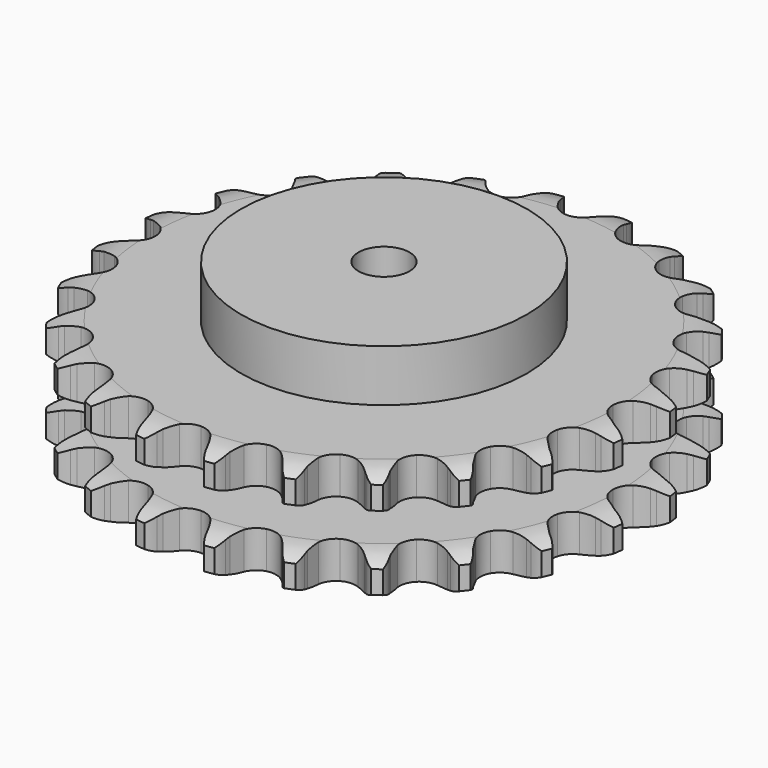
from build123d import *

# Parameters (mm, degrees)
PAD_DEPTH         = 54.6
SKETCH001_R       = 70
PAD001_DEPTH      = 80
SKETCH002_R       = 12.5
POCKET_DEPTH      = 0.001
POCKET_DEPTH_BACK = 80.001


with BuildPart() as part:
    # Sprocket → Pad (new body)
    with BuildSketch(Plane.XY):
        with BuildLine():
            ThreePointArc((-17.220499, 130.802677), (-14.07962, 127.759778), (-11.902434, 123.967125))
            Line((-11.902434, 123.967125), (-10.977468, 121.658441))
            ThreePointArc((-10.977468, 121.658441), (-9.502577, 118.600676), (-7.624701, 115.77246))
            ThreePointArc((-7.624701, 115.77246), (-4.250715, 113.003502), (0, 112.012374))
            ThreePointArc((0, 112.012374), (4.250715, 113.003502), (7.624701, 115.77246))
            ThreePointArc((7.624701, 115.77246), (9.502577, 118.600676), (10.977468, 121.658441))
            Line((10.977468, 121.658441), (11.902434, 123.967125))
            ThreePointArc((11.902434, 123.967125), (14.07962, 127.759778), (17.220499, 130.802677))
            ThreePointArc((17.220499, 130.802677), (19.466795, 127.050543), (20.588184, 122.823624))
            Line((20.588184, 122.823624), (20.884102, 120.354208))
            ThreePointArc((20.884102, 120.354208), (21.517329, 117.018904), (22.599222, 113.801027))
            ThreePointArc((22.599222, 113.801027), (25.141583, 110.253167), (28.990936, 108.195645))
            ThreePointArc((28.990936, 108.195645), (33.353334, 108.052835), (37.329013, 109.854192))
            Line((37.329013, 109.854192), (42.090941, 114.671852))
            ThreePointArc((42.090941, 114.671852), (42.811513, 115.685826), (43.581921, 116.662471))
            ThreePointArc((43.581921, 116.662471), (46.666533, 119.762395), (50.487949, 121.888691))
            ThreePointArc((50.487949, 121.888691), (51.68658, 117.683023), (51.675752, 113.309896))
            Line((51.675752, 113.309896), (51.322454, 110.848035))
            ThreePointArc((51.322454, 110.848035), (51.070865, 107.462487), (51.283046, 104.074242))
            ThreePointArc((51.283046, 104.074242), (52.820524, 99.989261), (56.006187, 97.005561))
            ThreePointArc((56.006187, 97.005561), (60.182978, 95.738546), (64.489415, 96.449541))
            Line((64.489415, 96.449541), (70.335987, 99.870567))
            ThreePointArc((70.335987, 99.870567), (71.294441, 100.663492), (72.291373, 101.407462))
            ThreePointArc((72.291373, 101.407462), (76.073198, 103.603403), (80.314728, 104.668192))
            ThreePointArc((80.314728, 104.668192), (80.38401, 100.2956), (79.241703, 96.074286))
            Line((79.241703, 96.074286), (78.263267, 93.787751))
            ThreePointArc((78.263267, 93.787751), (77.144006, 90.58268), (76.472014, 87.254969))
            ThreePointArc((76.472014, 87.254969), (76.899833, 82.911252), (79.204709, 79.204709))
            ThreePointArc((79.204709, 79.204709), (82.911252, 76.899833), (87.254969, 76.472014))
            Line((87.254969, 76.472014), (93.787751, 78.263267))
            ThreePointArc((93.787751, 78.263267), (94.918771, 78.781107), (96.074286, 79.241703))
            ThreePointArc((96.074286, 79.241703), (100.2956, 80.38401), (104.668192, 80.314728))
            ThreePointArc((104.668192, 80.314728), (103.603403, 76.073198), (101.407462, 72.291373))
            Line((101.407462, 72.291373), (99.870567, 70.335987))
            ThreePointArc((99.870567, 70.335987), (97.95991, 67.529812), (96.449541, 64.489415))
            ThreePointArc((96.449541, 64.489415), (95.738546, 60.182978), (97.005561, 56.006187))
            ThreePointArc((97.005561, 56.006187), (99.989261, 52.820524), (104.074242, 51.283046))
            Line((104.074242, 51.283046), (110.848035, 51.322454))
            ThreePointArc((110.848035, 51.322454), (112.074543, 51.529921), (113.309896, 51.675752))
            ThreePointArc((113.309896, 51.675752), (117.683023, 51.68658), (121.888691, 50.487949))
            ThreePointArc((121.888691, 50.487949), (119.762395, 46.666533), (116.662471, 43.581921))
            Line((116.662471, 43.581921), (114.671852, 42.090941))
            ThreePointArc((114.671852, 42.090941), (112.100008, 39.874899), (109.854192, 37.329013))
            ThreePointArc((109.854192, 37.329013), (108.052835, 33.353334), (108.195645, 28.990936))
            ThreePointArc((108.195645, 28.990936), (110.253167, 25.141583), (113.801027, 22.599222))
            Line((113.801027, 22.599222), (120.354208, 20.884102))
            ThreePointArc((120.354208, 20.884102), (121.59262, 20.767055), (122.823624, 20.588184))
            ThreePointArc((122.823624, 20.588184), (127.050543, 19.466795), (130.802677, 17.220499))
            ThreePointArc((130.802677, 17.220499), (127.759778, 14.07962), (123.967125, 11.902434))
            Line((123.967125, 11.902434), (121.658441, 10.977468))
            ThreePointArc((121.658441, 10.977468), (118.600676, 9.502577), (115.77246, 7.624701))
            ThreePointArc((115.77246, 7.624701), (113.003502, 4.250715), (112.012374, 0))
            ThreePointArc((112.012374, 0), (113.003502, -4.250715), (115.77246, -7.624701))
            Line((115.77246, -7.624701), (121.658441, -10.977468))
            ThreePointArc((121.658441, -10.977468), (122.824362, -11.411051), (123.967125, -11.902434))
            ThreePointArc((123.967125, -11.902434), (127.759778, -14.07962), (130.802677, -17.220499))
            ThreePointArc((130.802677, -17.220499), (127.050543, -19.466795), (122.823624, -20.588184))
            Line((122.823624, -20.588184), (120.354208, -20.884102))
            ThreePointArc((120.354208, -20.884102), (117.018904, -21.517329), (113.801027, -22.599222))
            ThreePointArc((113.801027, -22.599222), (110.253167, -25.141583), (108.195645, -28.990936))
            ThreePointArc((108.195645, -28.990936), (108.052835, -33.353334), (109.854192, -37.329013))
            Line((109.854192, -37.329013), (114.671852, -42.090941))
            ThreePointArc((114.671852, -42.090941), (115.685826, -42.811513), (116.662471, -43.581921))
            ThreePointArc((116.662471, -43.581921), (119.762395, -46.666533), (121.888691, -50.487949))
            ThreePointArc((121.888691, -50.487949), (117.683023, -51.68658), (113.309896, -51.675752))
            Line((113.309896, -51.675752), (110.848035, -51.322454))
            ThreePointArc((110.848035, -51.322454), (107.462487, -51.070865), (104.074242, -51.283046))
            ThreePointArc((104.074242, -51.283046), (99.989261, -52.820524), (97.005561, -56.006187))
            ThreePointArc((97.005561, -56.006187), (95.738546, -60.182978), (96.449541, -64.489415))
            Line((96.449541, -64.489415), (99.870567, -70.335987))
            ThreePointArc((99.870567, -70.335987), (100.663492, -71.294441), (101.407462, -72.291373))
            ThreePointArc((101.407462, -72.291373), (103.603403, -76.073198), (104.668192, -80.314728))
            ThreePointArc((104.668192, -80.314728), (100.2956, -80.38401), (96.074286, -79.241703))
            Line((96.074286, -79.241703), (93.787751, -78.263267))
            ThreePointArc((93.787751, -78.263267), (90.58268, -77.144006), (87.254969, -76.472014))
            ThreePointArc((87.254969, -76.472014), (82.911252, -76.899833), (79.204709, -79.204709))
            ThreePointArc((79.204709, -79.204709), (76.899833, -82.911252), (76.472014, -87.254969))
            Line((76.472014, -87.254969), (78.263267, -93.787751))
            ThreePointArc((78.263267, -93.787751), (78.781107, -94.918771), (79.241703, -96.074286))
            ThreePointArc((79.241703, -96.074286), (80.38401, -100.2956), (80.314728, -104.668192))
            ThreePointArc((80.314728, -104.668192), (76.073198, -103.603403), (72.291373, -101.407462))
            Line((72.291373, -101.407462), (70.335987, -99.870567))
            ThreePointArc((70.335987, -99.870567), (67.529812, -97.95991), (64.489415, -96.449541))
            ThreePointArc((64.489415, -96.449541), (60.182978, -95.738546), (56.006187, -97.005561))
            ThreePointArc((56.006187, -97.005561), (52.820524, -99.989261), (51.283046, -104.074242))
            Line((51.283046, -104.074242), (51.322454, -110.848035))
            ThreePointArc((51.322454, -110.848035), (51.529921, -112.074543), (51.675752, -113.309896))
            ThreePointArc((51.675752, -113.309896), (51.68658, -117.683023), (50.487949, -121.888691))
            ThreePointArc((50.487949, -121.888691), (46.666533, -119.762395), (43.581921, -116.662471))
            Line((43.581921, -116.662471), (42.090941, -114.671852))
            ThreePointArc((42.090941, -114.671852), (39.874899, -112.100008), (37.329013, -109.854192))
            ThreePointArc((37.329013, -109.854192), (33.353334, -108.052835), (28.990936, -108.195645))
            ThreePointArc((28.990936, -108.195645), (25.141583, -110.253167), (22.599222, -113.801027))
            Line((22.599222, -113.801027), (20.884102, -120.354208))
            ThreePointArc((20.884102, -120.354208), (20.767055, -121.59262), (20.588184, -122.823624))
            ThreePointArc((20.588184, -122.823624), (19.466795, -127.050543), (17.220499, -130.802677))
            ThreePointArc((17.220499, -130.802677), (14.07962, -127.759778), (11.902434, -123.967125))
            Line((11.902434, -123.967125), (10.977468, -121.658441))
            ThreePointArc((10.977468, -121.658441), (9.502577, -118.600676), (7.624701, -115.77246))
            ThreePointArc((7.624701, -115.77246), (4.250715, -113.003502), (0, -112.012374))
            ThreePointArc((0, -112.012374), (-4.250715, -113.003502), (-7.624701, -115.77246))
            Line((-7.624701, -115.77246), (-10.977468, -121.658441))
            ThreePointArc((-10.977468, -121.658441), (-11.411051, -122.824362), (-11.902434, -123.967125))
            ThreePointArc((-11.902434, -123.967125), (-14.07962, -127.759778), (-17.220499, -130.802677))
            ThreePointArc((-17.220499, -130.802677), (-19.466795, -127.050543), (-20.588184, -122.823624))
            Line((-20.588184, -122.823624), (-20.884102, -120.354208))
            ThreePointArc((-20.884102, -120.354208), (-21.517329, -117.018904), (-22.599222, -113.801027))
            ThreePointArc((-22.599222, -113.801027), (-25.141583, -110.253167), (-28.990936, -108.195645))
            ThreePointArc((-28.990936, -108.195645), (-33.353334, -108.052835), (-37.329013, -109.854192))
            Line((-37.329013, -109.854192), (-42.090941, -114.671852))
            ThreePointArc((-42.090941, -114.671852), (-42.811513, -115.685826), (-43.581921, -116.662471))
            ThreePointArc((-43.581921, -116.662471), (-46.666533, -119.762395), (-50.487949, -121.888691))
            ThreePointArc((-50.487949, -121.888691), (-51.68658, -117.683023), (-51.675752, -113.309896))
            Line((-51.675752, -113.309896), (-51.322454, -110.848035))
            ThreePointArc((-51.322454, -110.848035), (-51.070865, -107.462487), (-51.283046, -104.074242))
            ThreePointArc((-51.283046, -104.074242), (-52.820524, -99.989261), (-56.006187, -97.005561))
            ThreePointArc((-56.006187, -97.005561), (-60.182978, -95.738546), (-64.489415, -96.449541))
            Line((-64.489415, -96.449541), (-70.335987, -99.870567))
            ThreePointArc((-70.335987, -99.870567), (-71.294441, -100.663492), (-72.291373, -101.407462))
            ThreePointArc((-72.291373, -101.407462), (-76.073198, -103.603403), (-80.314728, -104.668192))
            ThreePointArc((-80.314728, -104.668192), (-80.38401, -100.2956), (-79.241703, -96.074286))
            Line((-79.241703, -96.074286), (-78.263267, -93.787751))
            ThreePointArc((-78.263267, -93.787751), (-77.144006, -90.58268), (-76.472014, -87.254969))
            ThreePointArc((-76.472014, -87.254969), (-76.899833, -82.911252), (-79.204709, -79.204709))
            ThreePointArc((-79.204709, -79.204709), (-82.911252, -76.899833), (-87.254969, -76.472014))
            Line((-87.254969, -76.472014), (-93.787751, -78.263267))
            ThreePointArc((-93.787751, -78.263267), (-94.918771, -78.781107), (-96.074286, -79.241703))
            ThreePointArc((-96.074286, -79.241703), (-100.2956, -80.38401), (-104.668192, -80.314728))
            ThreePointArc((-104.668192, -80.314728), (-103.603403, -76.073198), (-101.407462, -72.291373))
            Line((-101.407462, -72.291373), (-99.870567, -70.335987))
            ThreePointArc((-99.870567, -70.335987), (-97.95991, -67.529812), (-96.449541, -64.489415))
            ThreePointArc((-96.449541, -64.489415), (-95.738546, -60.182978), (-97.005561, -56.006187))
            ThreePointArc((-97.005561, -56.006187), (-99.989261, -52.820524), (-104.074242, -51.283046))
            Line((-104.074242, -51.283046), (-110.848035, -51.322454))
            ThreePointArc((-110.848035, -51.322454), (-112.074543, -51.529921), (-113.309896, -51.675752))
            ThreePointArc((-113.309896, -51.675752), (-117.683023, -51.68658), (-121.888691, -50.487949))
            ThreePointArc((-121.888691, -50.487949), (-119.762395, -46.666533), (-116.662471, -43.581921))
            Line((-116.662471, -43.581921), (-114.671852, -42.090941))
            ThreePointArc((-114.671852, -42.090941), (-112.100008, -39.874899), (-109.854192, -37.329013))
            ThreePointArc((-109.854192, -37.329013), (-108.052835, -33.353334), (-108.195645, -28.990936))
            ThreePointArc((-108.195645, -28.990936), (-110.253167, -25.141583), (-113.801027, -22.599222))
            Line((-113.801027, -22.599222), (-120.354208, -20.884102))
            ThreePointArc((-120.354208, -20.884102), (-121.59262, -20.767055), (-122.823624, -20.588184))
            ThreePointArc((-122.823624, -20.588184), (-127.050543, -19.466795), (-130.802677, -17.220499))
            ThreePointArc((-130.802677, -17.220499), (-127.759778, -14.07962), (-123.967125, -11.902434))
            Line((-123.967125, -11.902434), (-121.658441, -10.977468))
            ThreePointArc((-121.658441, -10.977468), (-118.600676, -9.502577), (-115.77246, -7.624701))
            ThreePointArc((-115.77246, -7.624701), (-113.003502, -4.250715), (-112.012374, 0))
            ThreePointArc((-112.012374, 0), (-113.003502, 4.250715), (-115.77246, 7.624701))
            Line((-115.77246, 7.624701), (-121.658441, 10.977468))
            ThreePointArc((-121.658441, 10.977468), (-122.824362, 11.411051), (-123.967125, 11.902434))
            ThreePointArc((-123.967125, 11.902434), (-127.759778, 14.07962), (-130.802677, 17.220499))
            ThreePointArc((-130.802677, 17.220499), (-127.050543, 19.466795), (-122.823624, 20.588184))
            Line((-122.823624, 20.588184), (-120.354208, 20.884102))
            ThreePointArc((-120.354208, 20.884102), (-117.018904, 21.517329), (-113.801027, 22.599222))
            ThreePointArc((-113.801027, 22.599222), (-110.253167, 25.141583), (-108.195645, 28.990936))
            ThreePointArc((-108.195645, 28.990936), (-108.052835, 33.353334), (-109.854192, 37.329013))
            Line((-109.854192, 37.329013), (-114.671852, 42.090941))
            ThreePointArc((-114.671852, 42.090941), (-115.685826, 42.811513), (-116.662471, 43.581921))
            ThreePointArc((-116.662471, 43.581921), (-119.762395, 46.666533), (-121.888691, 50.487949))
            ThreePointArc((-121.888691, 50.487949), (-117.683023, 51.68658), (-113.309896, 51.675752))
            Line((-113.309896, 51.675752), (-110.848035, 51.322454))
            ThreePointArc((-110.848035, 51.322454), (-107.462487, 51.070865), (-104.074242, 51.283046))
            ThreePointArc((-104.074242, 51.283046), (-99.989261, 52.820524), (-97.005561, 56.006187))
            ThreePointArc((-97.005561, 56.006187), (-95.738546, 60.182978), (-96.449541, 64.489415))
            Line((-96.449541, 64.489415), (-99.870567, 70.335987))
            ThreePointArc((-99.870567, 70.335987), (-100.663492, 71.294441), (-101.407462, 72.291373))
            ThreePointArc((-101.407462, 72.291373), (-103.603403, 76.073198), (-104.668192, 80.314728))
            ThreePointArc((-104.668192, 80.314728), (-100.2956, 80.38401), (-96.074286, 79.241703))
            Line((-96.074286, 79.241703), (-93.787751, 78.263267))
            ThreePointArc((-93.787751, 78.263267), (-90.58268, 77.144006), (-87.254969, 76.472014))
            ThreePointArc((-87.254969, 76.472014), (-82.911252, 76.899833), (-79.204709, 79.204709))
            ThreePointArc((-79.204709, 79.204709), (-76.899833, 82.911252), (-76.472014, 87.254969))
            Line((-76.472014, 87.254969), (-78.263267, 93.787751))
            ThreePointArc((-78.263267, 93.787751), (-78.781107, 94.918771), (-79.241703, 96.074286))
            ThreePointArc((-79.241703, 96.074286), (-80.38401, 100.2956), (-80.314728, 104.668192))
            ThreePointArc((-80.314728, 104.668192), (-76.073198, 103.603403), (-72.291373, 101.407462))
            Line((-72.291373, 101.407462), (-70.335987, 99.870567))
            ThreePointArc((-70.335987, 99.870567), (-67.529812, 97.95991), (-64.489415, 96.449541))
            ThreePointArc((-64.489415, 96.449541), (-60.182978, 95.738546), (-56.006187, 97.005561))
            ThreePointArc((-56.006187, 97.005561), (-52.820524, 99.989261), (-51.283046, 104.074242))
            Line((-51.283046, 104.074242), (-51.322454, 110.848035))
            ThreePointArc((-51.322454, 110.848035), (-51.529921, 112.074543), (-51.675752, 113.309896))
            ThreePointArc((-51.675752, 113.309896), (-51.68658, 117.683023), (-50.487949, 121.888691))
            ThreePointArc((-50.487949, 121.888691), (-46.666533, 119.762395), (-43.581921, 116.662471))
            Line((-43.581921, 116.662471), (-42.090941, 114.671852))
            ThreePointArc((-42.090941, 114.671852), (-39.874899, 112.100008), (-37.329013, 109.854192))
            ThreePointArc((-37.329013, 109.854192), (-33.353334, 108.052835), (-28.990936, 108.195645))
            ThreePointArc((-28.990936, 108.195645), (-25.141583, 110.253167), (-22.599222, 113.801027))
            Line((-22.599222, 113.801027), (-20.884102, 120.354208))
            ThreePointArc((-20.884102, 120.354208), (-20.767055, 121.59262), (-20.588184, 122.823624))
            ThreePointArc((-20.588184, 122.823624), (-19.466795, 127.050543), (-17.220499, 130.802677))
        make_face()
    extrude(amount=PAD_DEPTH)

    # Sketch → Groove (revolve, cut)
    with BuildSketch(Plane.XZ):
        with BuildLine():
            ThreePointArc((114.648368, 0), (122.131683, 0.887302), (129.2, 3.5))
            Line((129.2, 3.5), (129.2, 14.7))
            ThreePointArc((129.2, 14.7), (122.131683, 17.312698), (114.648368, 18.2))
            Line((70, 18.2), (114.648368, 18.2))
            Line((70, 36.4), (70, 18.2))
            Line((114.648368, 36.4), (70, 36.4))
            ThreePointArc((114.648368, 36.4), (122.131683, 37.287302), (129.2, 39.9))
            Line((129.2, 39.9), (129.2, 51.1))
            ThreePointArc((129.2, 51.1), (122.131683, 53.712698), (114.648368, 54.6))
            Line((114.648368, 54.6), (139.2, 54.6))
            Line((139.2, 54.6), (139.2, 0))
            Line((114.648368, 0), (139.2, 0))
        make_face()
    revolve(axis=Axis((0, 0, 0), (0, 0, 1)), mode=Mode.SUBTRACT)

    # Sketch001 → Pad001 (join)
    with BuildSketch(Plane.XY):
        Circle(SKETCH001_R)
    extrude(amount=PAD001_DEPTH)

    # Sketch002 → Pocket (cut, two sides)
    with BuildSketch(Plane.XY) as pocket_sk:
        Circle(SKETCH002_R)
    extrude(amount=-POCKET_DEPTH, mode=Mode.SUBTRACT)
    extrude(pocket_sk.sketch, amount=POCKET_DEPTH_BACK, mode=Mode.SUBTRACT)


solid = part.part
